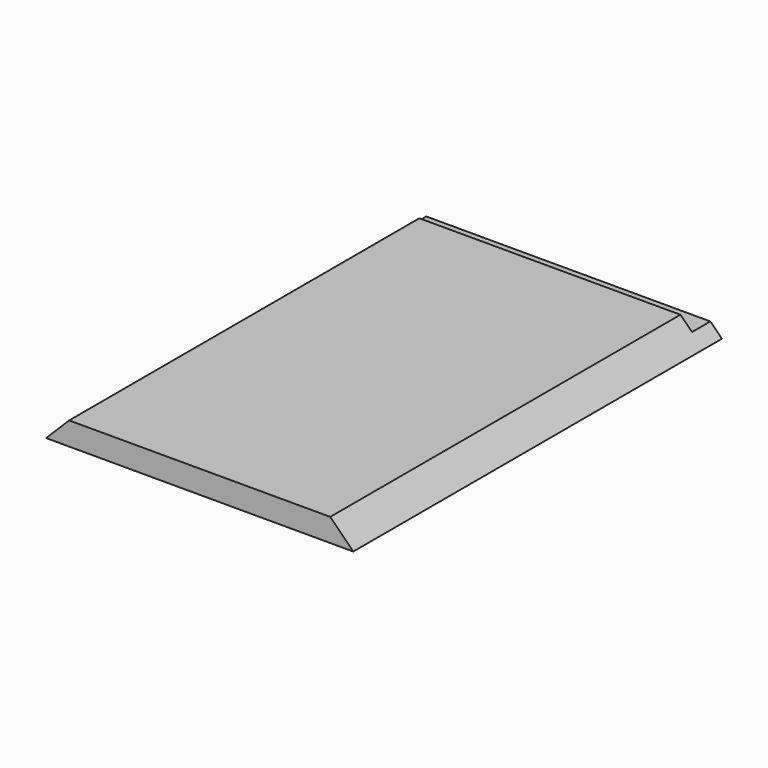
from build123d import *

# Parameters (mm, degrees)
F5_DEPTH      = 150
F5_DEPTH_BACK = 150
F6_W          = 200
F6_H          = 12.5
F7_DEPTH      = 15


with BuildPart() as f5:
    # F2 (on Front) → F5 (new body, two sides)
    with BuildSketch(Plane.XZ) as f5_sk:
        Polygon((-85, 15), (-100, 0), (100, 0), (85, 15), align=None)
    extrude(amount=F5_DEPTH)
    extrude(f5_sk.sketch, amount=-F5_DEPTH_BACK)

    # F6 (on offset) → F7 (cut)
    with BuildSketch(Plane.XZ.offset(-150)):
        with Locations((0, 13.75)):
            Rectangle(F6_W, F6_H)
    extrude(amount=F7_DEPTH, mode=Mode.SUBTRACT)


solid = f5.part
